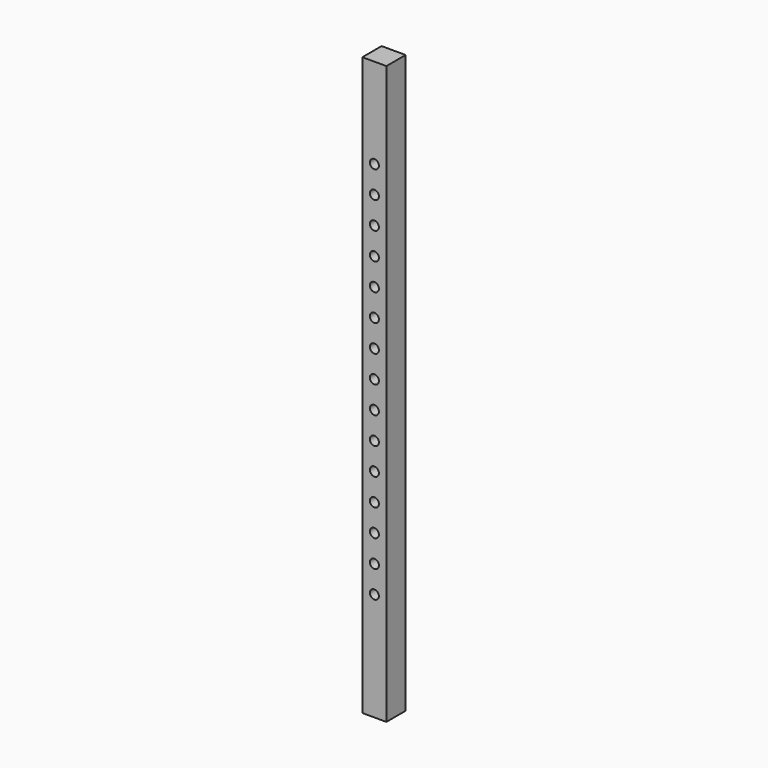
from build123d import *

# Parameters (mm, degrees)
F0_W     = 101.6
F0_H     = 2438.4
F1_DEPTH = 101.6
F3_DEPTH = 101.6


with BuildPart() as f1:
    # F0 (on Front) → F1 (new body)
    with BuildSketch(Plane.XZ):
        with Locations((24.5261041723, 1030.4303231494)):
            Rectangle(F0_W, F0_H)
    extrude(amount=F1_DEPTH)

    # F2 (on face) → F3 (cut)
    with BuildSketch(Plane.XZ.offset(101.6)):
        with BuildLine():
            Line((24.5261041723, 1849.5803231494), (24.5261041723, 1887.6803231494))
            ThreePointArc((24.5261041723, 1887.6803231494), (5.4761041723, 1868.6303231494), (24.5261041723, 1849.5803231494))
        make_face()
        with BuildLine():
            ThreePointArc((43.5761041723, 1868.6303231494), (37.9964883539, 1882.100707331), (24.5261041723, 1887.6803231494))
            Line((24.5261041723, 1887.6803231494), (24.5261041723, 1849.5803231494))
            ThreePointArc((24.5261041723, 1849.5803231494), (37.9964883539, 1855.1599389678), (43.5761041723, 1868.6303231494))
        make_face()
        with BuildLine():
            Line((24.5261041723, 1735.2803231494), (24.5261041723, 1773.3803231494))
            ThreePointArc((24.5261041723, 1773.3803231494), (5.4761041723, 1754.3303231494), (24.5261041723, 1735.2803231494))
        make_face()
        with BuildLine():
            ThreePointArc((43.5761041723, 1754.3303231494), (37.9964883539, 1767.800707331), (24.5261041723, 1773.3803231494))
            Line((24.5261041723, 1773.3803231494), (24.5261041723, 1735.2803231494))
            ThreePointArc((24.5261041723, 1735.2803231494), (37.9964883539, 1740.8599389678), (43.5761041723, 1754.3303231494))
        make_face()
        with BuildLine():
            Line((24.5261041723, 1620.9803231494), (24.5261041723, 1659.0803231494))
            ThreePointArc((24.5261041723, 1659.0803231494), (5.4761041723, 1640.0303231494), (24.5261041723, 1620.9803231494))
        make_face()
        with BuildLine():
            ThreePointArc((43.5761041723, 1640.0303231494), (37.9964883539, 1653.500707331), (24.5261041723, 1659.0803231494))
            Line((24.5261041723, 1659.0803231494), (24.5261041723, 1620.9803231494))
            ThreePointArc((24.5261041723, 1620.9803231494), (37.9964883539, 1626.5599389678), (43.5761041723, 1640.0303231494))
        make_face()
        with BuildLine():
            ThreePointArc((24.5261041723, 1544.7803231494), (5.4761041723, 1525.7303231494), (24.5261041723, 1506.6803231494))
            Line((24.5261041723, 1506.6803231494), (24.5261041723, 1544.7803231494))
        make_face()
        with BuildLine():
            Line((24.5261041723, 1430.4803231494), (24.5261041723, 1392.3803231494))
            ThreePointArc((24.5261041723, 1392.3803231494), (37.9964883539, 1397.9599389678), (43.5761041723, 1411.4303231494))
            ThreePointArc((43.5761041723, 1411.4303231494), (37.9964883539, 1424.900707331), (24.5261041723, 1430.4803231494))
        make_face()
        with BuildLine():
            ThreePointArc((24.5261041723, 1430.4803231494), (5.4761041723, 1411.4303231494), (24.5261041723, 1392.3803231494))
            Line((24.5261041723, 1392.3803231494), (24.5261041723, 1430.4803231494))
        make_face()
        with BuildLine():
            Line((24.5261041723, 1544.7803231494), (24.5261041723, 1506.6803231494))
            ThreePointArc((24.5261041723, 1506.6803231494), (37.9964883539, 1512.2599389678), (43.5761041723, 1525.7303231494))
            ThreePointArc((43.5761041723, 1525.7303231494), (37.9964883539, 1539.200707331), (24.5261041723, 1544.7803231494))
        make_face()
        with BuildLine():
            Line((24.5261041723, 1316.1803231494), (24.5261041723, 1278.0803231494))
            ThreePointArc((24.5261041723, 1278.0803231494), (37.9964883539, 1283.6599389678), (43.5761041723, 1297.1303231494))
            ThreePointArc((43.5761041723, 1297.1303231494), (37.9964883539, 1310.600707331), (24.5261041723, 1316.1803231494))
        make_face()
        with BuildLine():
            ThreePointArc((24.5261041723, 1316.1803231494), (5.4761041723, 1297.1303231494), (24.5261041723, 1278.0803231494))
            Line((24.5261041723, 1278.0803231494), (24.5261041723, 1316.1803231494))
        make_face()
        with BuildLine():
            ThreePointArc((24.5261041723, 1201.8803231494), (5.4761041723, 1182.8303231494), (24.5261041723, 1163.7803231494))
            Line((24.5261041723, 1163.7803231494), (24.5261041723, 1201.8803231494))
        make_face()
        with BuildLine():
            Line((24.5261041723, 1201.8803231494), (24.5261041723, 1163.7803231494))
            ThreePointArc((24.5261041723, 1163.7803231494), (37.9964883539, 1169.3599389678), (43.5761041723, 1182.8303231494))
            ThreePointArc((43.5761041723, 1182.8303231494), (37.9964883539, 1196.300707331), (24.5261041723, 1201.8803231494))
        make_face()
        with BuildLine():
            ThreePointArc((43.5761041723, 1068.5303231494), (37.9964883539, 1082.000707331), (24.5261041723, 1087.5803231494))
            Line((24.5261041723, 1087.5803231494), (24.5261041723, 1049.4803231494))
            ThreePointArc((24.5261041723, 1049.4803231494), (37.9964883539, 1055.0599389678), (43.5761041723, 1068.5303231494))
        make_face()
        with BuildLine():
            Line((24.5261041723, 1049.4803231494), (24.5261041723, 1087.5803231494))
            ThreePointArc((24.5261041723, 1087.5803231494), (5.4761041723, 1068.5303231494), (24.5261041723, 1049.4803231494))
        make_face()
        with BuildLine():
            Line((24.5261041723, 935.1803231494), (24.5261041723, 973.2803231494))
            ThreePointArc((24.5261041723, 973.2803231494), (5.4761041723, 954.2303231494), (24.5261041723, 935.1803231494))
        make_face()
        with BuildLine():
            ThreePointArc((43.5761041723, 954.2303231494), (37.9964883539, 967.700707331), (24.5261041723, 973.2803231494))
            Line((24.5261041723, 973.2803231494), (24.5261041723, 935.1803231494))
            ThreePointArc((24.5261041723, 935.1803231494), (37.9964883539, 940.7599389678), (43.5761041723, 954.2303231494))
        make_face()
        with BuildLine():
            ThreePointArc((24.5261041723, 858.9803231494), (5.4761041723, 839.9303231494), (24.5261041723, 820.8803231494))
            Line((24.5261041723, 820.8803231494), (24.5261041723, 858.9803231494))
        make_face()
        with BuildLine():
            Line((24.5261041723, 858.9803231494), (24.5261041723, 820.8803231494))
            ThreePointArc((24.5261041723, 820.8803231494), (37.9964883539, 826.4599389678), (43.5761041723, 839.9303231494))
            ThreePointArc((43.5761041723, 839.9303231494), (37.9964883539, 853.400707331), (24.5261041723, 858.9803231494))
        make_face()
        with BuildLine():
            ThreePointArc((24.5261041723, 744.6803231494), (5.4761041723, 725.6303231494), (24.5261041723, 706.5803231494))
            Line((24.5261041723, 706.5803231494), (24.5261041723, 744.6803231494))
        make_face()
        with BuildLine():
            Line((24.5261041723, 744.6803231494), (24.5261041723, 706.5803231494))
            ThreePointArc((24.5261041723, 706.5803231494), (37.9964883539, 712.1599389678), (43.5761041723, 725.6303231494))
            ThreePointArc((43.5761041723, 725.6303231494), (37.9964883539, 739.100707331), (24.5261041723, 744.6803231494))
        make_face()
        with BuildLine():
            Line((24.5261041723, 592.2803231494), (24.5261041723, 630.3803231494))
            ThreePointArc((24.5261041723, 630.3803231494), (5.4761041723, 611.3303231494), (24.5261041723, 592.2803231494))
        make_face()
        with BuildLine():
            ThreePointArc((43.5761041723, 611.3303231494), (37.9964883539, 624.800707331), (24.5261041723, 630.3803231494))
            Line((24.5261041723, 630.3803231494), (24.5261041723, 592.2803231494))
            ThreePointArc((24.5261041723, 592.2803231494), (37.9964883539, 597.8599389678), (43.5761041723, 611.3303231494))
        make_face()
        with BuildLine():
            ThreePointArc((24.5261041723, 516.0803231494), (5.4761041723, 497.0303231494), (24.5261041723, 477.9803231494))
            Line((24.5261041723, 477.9803231494), (24.5261041723, 516.0803231494))
        make_face()
        with BuildLine():
            Line((24.5261041723, 516.0803231494), (24.5261041723, 477.9803231494))
            ThreePointArc((24.5261041723, 477.9803231494), (37.9964883539, 483.5599389678), (43.5761041723, 497.0303231494))
            ThreePointArc((43.5761041723, 497.0303231494), (37.9964883539, 510.500707331), (24.5261041723, 516.0803231494))
        make_face()
        with BuildLine():
            ThreePointArc((24.5261041723, 401.7803231494), (5.4761041723, 382.7303231494), (24.5261041723, 363.6803231494))
            Line((24.5261041723, 363.6803231494), (24.5261041723, 401.7803231494))
        make_face()
        with BuildLine():
            Line((24.5261041723, 401.7803231494), (24.5261041723, 363.6803231494))
            ThreePointArc((24.5261041723, 363.6803231494), (37.9964883539, 369.2599389678), (43.5761041723, 382.7303231494))
            ThreePointArc((43.5761041723, 382.7303231494), (37.9964883539, 396.200707331), (24.5261041723, 401.7803231494))
        make_face()
        with BuildLine():
            ThreePointArc((24.5261041723, 287.4803231494), (5.4761041723, 268.4303231494), (24.5261041723, 249.3803231494))
            Line((24.5261041723, 249.3803231494), (24.5261041723, 268.4303231494))
            Line((24.5261041723, 268.4303231494), (24.5261041723, 287.4803231494))
        make_face()
        with BuildLine():
            Line((24.5261041723, 268.4303231494), (24.5261041723, 249.3803231494))
            ThreePointArc((24.5261041723, 249.3803231494), (37.9964883539, 254.9599389678), (43.5761041723, 268.4303231494))
            ThreePointArc((43.5761041723, 268.4303231494), (37.9964883539, 281.900707331), (24.5261041723, 287.4803231494))
            Line((24.5261041723, 287.4803231494), (24.5261041723, 268.4303231494))
        make_face()
    extrude(amount=-F3_DEPTH, mode=Mode.SUBTRACT)


solid = f1.part
